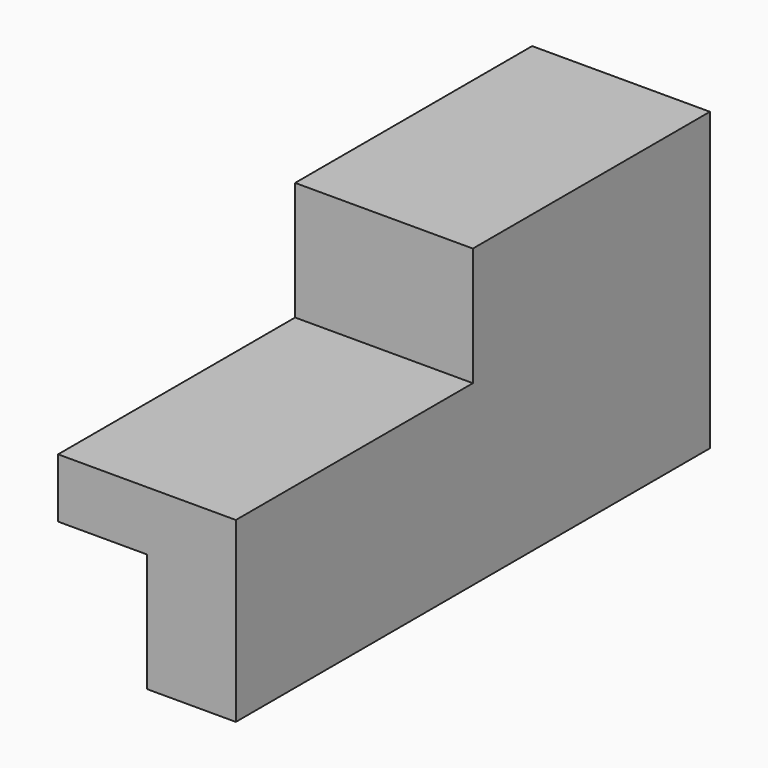
from build123d import *

# Parameters (mm, degrees)
F1_DEPTH = 127
F0_W     = 38.1
F0_H     = 25.4
F2_DEPTH = 63.5


with BuildPart() as f1:
    # F0 (on Front) → F1 (new body)
    with BuildSketch(Plane.XZ):
        Polygon((21.663758, -38.1), (40.713758, -38.1), (40.713758, 0), (2.613758, 0), (2.613758, -12.7), (21.663758, -12.7), align=None)
    extrude(amount=F1_DEPTH)

    # F0 (on Front) → F2 (join)
    with BuildSketch(Plane.XZ):
        Polygon((21.663758, -38.1), (40.713758, -38.1), (40.713758, 0), (2.613758, 0), (2.613758, -12.7), (21.663758, -12.7), align=None)
        with Locations((21.663758, 12.7)):
            Rectangle(F0_W, F0_H)
    extrude(amount=F2_DEPTH)


solid = f1.part
